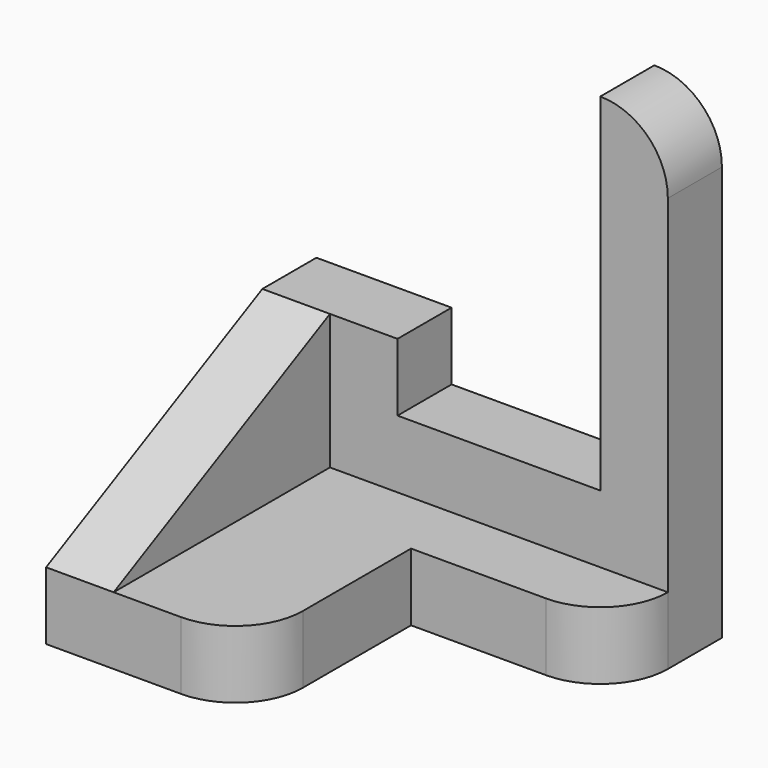
from build123d import *

# Parameters (mm, degrees)
F1_DEPTH = 10
F3_DEPTH = 10
F5_DEPTH = 10


with BuildPart() as f1:
    # F0 (on Top) → F1 (new body)
    with BuildSketch(Plane.XY):
        with BuildLine():
            Line((60, 0), (0, 0))
            Line((0, 0), (0, -50))
            Line((0, -50), (20, -50))
            ThreePointArc((20, -50), (27.071068, -47.071068), (30, -40))
            Line((30, -40), (30, -20))
            Line((30, -20), (50, -20))
            ThreePointArc((50, -20), (57.071068, -17.071068), (60, -10))
            Line((60, -10), (60, 0))
        make_face()
    extrude(amount=F1_DEPTH)

    # F2 (on Front) → F3 (join)
    with BuildSketch(Plane.XZ):
        with BuildLine():
            Line((0, 30), (0, 10))
            Line((0, 10), (60, 10))
            Line((60, 10), (60, 61.322002))
            ThreePointArc((60, 61.322002), (57.071068, 68.393069), (50, 71.322002))
            Line((50, 71.322002), (50, 20))
            Line((50, 20), (20, 20))
            Line((20, 20), (20, 30))
            Line((20, 30), (0, 30))
        make_face()
    extrude(amount=F3_DEPTH)

    # F4 (on Right) → F5 (join)
    with BuildSketch(Plane.YZ):
        Polygon((-50, 10), (-10, 10), (-10, 30), align=None)
    extrude(amount=F5_DEPTH)


solid = f1.part
